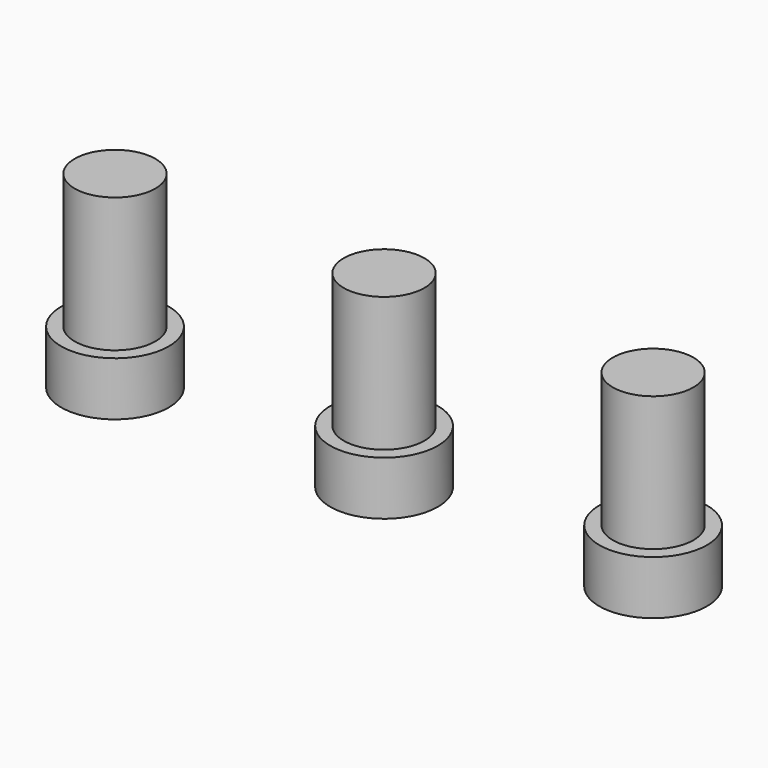
from build123d import *

# Parameters (mm, degrees)
CYLINDER_R        = 4
CYLINDER_DEPTH    = 4
CYLINDER001_R     = 3
CYLINDER001_DEPTH = 10


with BuildPart() as lower_cylinder:
    # Cylinder → Cylinder (new body)
    with BuildSketch(Plane.XY):
        Circle(CYLINDER_R)
    extrude(amount=CYLINDER_DEPTH)


with BuildPart() as fusion:
    # Cylinder001 → Cylinder001 (new body)
    with BuildSketch(Plane.XY.offset(4)):
        Circle(CYLINDER001_R)
    extrude(amount=CYLINDER001_DEPTH)

    # Fusion: union Lower cylinder
    add(lower_cylinder.part)


with BuildPart() as clone:
    # Clone base: copy of Fusion
    add(fusion.part)


with BuildPart() as clone_1:
    # Clone placement: moved
    add(clone.part.moved(Location((20, 0, 0))))


with BuildPart() as clone001:
    # Clone001 base: copy of Fusion
    add(fusion.part)


with BuildPart() as clone001_1:
    # Clone001 placement: moved
    add(clone001.part.moved(Location((40, 0, 0))))


solid = Compound([fusion.part, clone_1.part, clone001_1.part])
